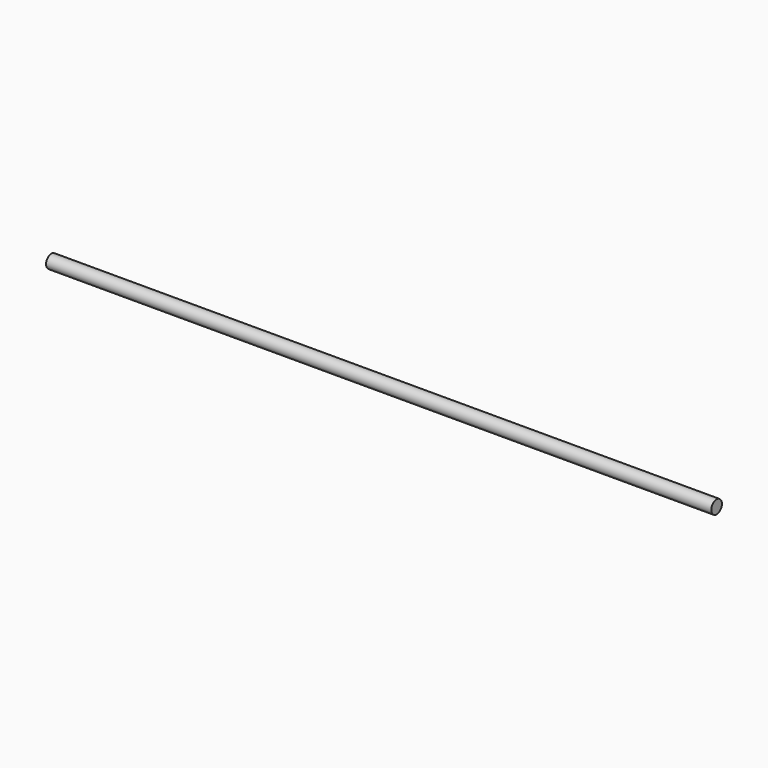
from build123d import *

# Parameters (mm, degrees)
CYLINDER_R           = 10
CYLINDER_DEPTH       = 1000
CYLINDER_PITCH_ANGLE = 90


with BuildPart() as part:
    # Cylinder → Cylinder (new body)
    with BuildSketch(Plane.XY):
        Circle(CYLINDER_R)
    extrude(amount=CYLINDER_DEPTH)


with BuildPart() as part_1:
    # Cylinder pitch: moved
    add(part.part.rotate(Axis((0, 0, 0), (0, 1, 0)), CYLINDER_PITCH_ANGLE))


with BuildPart() as part_2:
    # Cylinder placement: moved
    add(part_1.part.moved(Location((-500, 0, 0))))


solid = part_2.part
